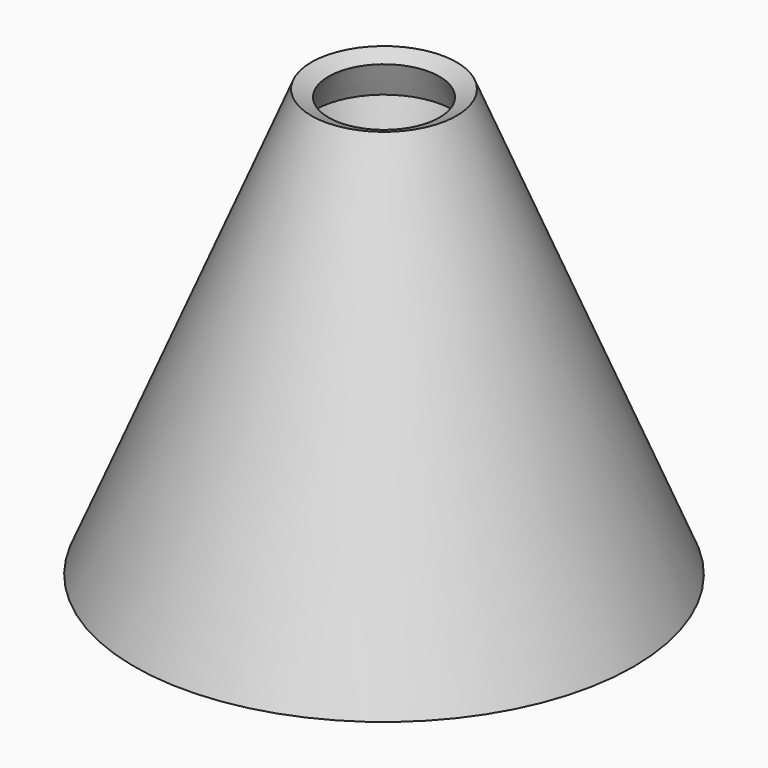
from build123d import *

# Parameters (mm, degrees)
F3_R = 0.25


with BuildPart() as f1:
    # F0 (on Front) → F1 (revolve)
    with BuildSketch(Plane.XZ):
        Polygon((-0.5, 0), (-0.5, 3.286208), (-0.75322, 4.172535), (-0.6, 4.542026), (-0.784745, 4.618636), (-2.7, 0), align=None)
    revolve(axis=Axis((0, 0, 2.086268), (0, 0, 1)))

    # F4: sweep along a path in F0
    with BuildLine(Plane.XZ) as f4_path:
        Line((-0.784745, 4.618636), (-2.7, 0))
    # F3 (on face) → F4 (sweep, cut)
    with BuildSketch(Plane(origin=(0, 0, 0), x_dir=(1, 0, 0), z_dir=(0, 0, -1))):
        with Locations((-1.742373, 0)):
            Circle(F3_R)
    sweep(path=f4_path.line, mode=Mode.SUBTRACT)


solid = f1.part
